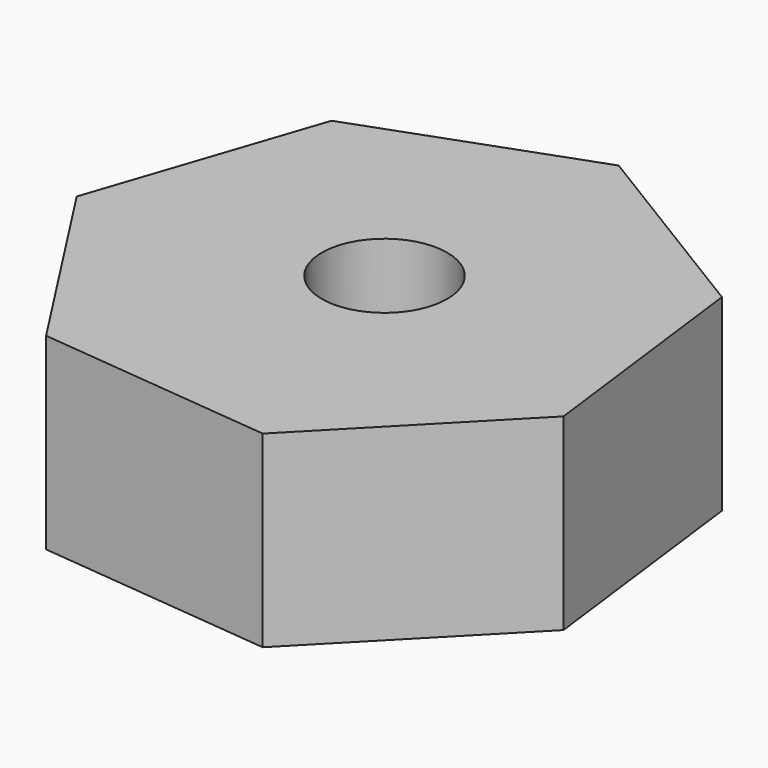
from build123d import *

# Parameters (mm, degrees)
F2_DEPTH = 4.7625
F3_R     = 1.5875
F4_DEPTH = 18.034


with BuildPart() as f2:
    # F0 (on Top) → F2 (new body)
    with BuildSketch(Plane.XY):
        Polygon((-37.663776, 12.472862), (-33.481061, 16.761916), (-34.2265, 22.706276), (-39.33876, 25.829716), (-44.968207, 23.780223), (-46.875751, 18.101107), (-43.624973, 13.068858), align=None)
    extrude(amount=F2_DEPTH)

    # F3 (on Top) → F4 (cut)
    with BuildSketch(Plane.XY):
        with Locations((-40.003754, 19.251533)):
            Circle(F3_R)
    extrude(amount=F4_DEPTH, mode=Mode.SUBTRACT)


solid = f2.part
